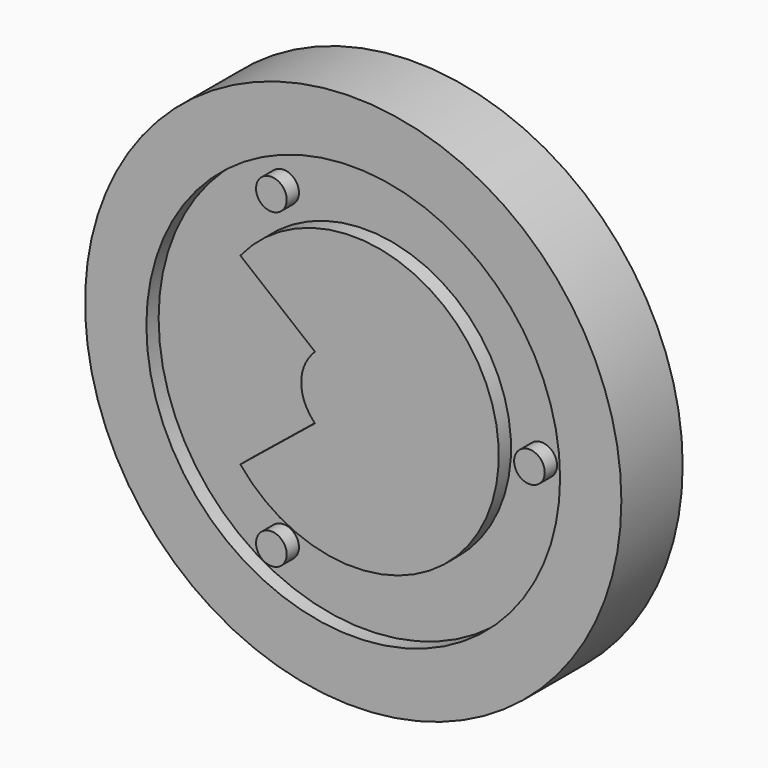
from build123d import *

# Parameters (mm, degrees)
F0_R     = 17.5
F0_R_2   = 13.5
F0_R_3   = 1
F1_DEPTH = 5
F2_DEPTH = 4


with BuildPart() as f1:
    # F0 (on Front) → F1 (new body)
    with BuildSketch(Plane.XZ):
        Circle(F0_R)
        Circle(F0_R_2, mode=Mode.SUBTRACT)
        with BuildLine():
            ThreePointArc((-7.36546, -6), (9.5, 0), (-7.36546, 6))
            Line((-7.36546, 6), (-2.5, 2.058528))
            add(Edge.make_bspline(
                [(-2.5, 2.058528), (-3.155988, 1.372416), (-3.626908, -0.000171), (-3.156096, -1.372603), (-2.5, -2.059)],
                knots=[0, 0, 0, 0, 2.243271, 4.486975, 4.486975, 4.486975, 4.486975], degree=3))
            Line((-2.5, -2.059), (-7.36546, -6))
        make_face()
        with Locations((-5.342105, -10.183905)):
            Circle(F0_R_3)
        with Locations((-5.342105, 10.183905)):
            Circle(F0_R_3)
        with Locations((11.5, 0)):
            Circle(F0_R_3)
    extrude(amount=F1_DEPTH)


with BuildPart() as f2:
    # F0 (on Front) → F2 (new body)
    with BuildSketch(Plane.XZ):
        Circle(F0_R_2)
        with Locations((-5.342105, -10.183905)):
            Circle(F0_R_3, mode=Mode.SUBTRACT)
        with BuildLine():
            Line((-2.5, 2.058528), (-7.36546, 6))
            ThreePointArc((-7.36546, 6), (9.5, 0), (-7.36546, -6))
            Line((-7.36546, -6), (-2.5, -2.059))
            add(Edge.make_bspline(
                [(-2.5, 2.058528), (-3.155988, 1.372416), (-3.626908, -0.000171), (-3.156096, -1.372603), (-2.5, -2.059)],
                knots=[0, 0, 0, 0, 2.243271, 4.486975, 4.486975, 4.486975, 4.486975], degree=3))
        make_face(mode=Mode.SUBTRACT)
        with Locations((-5.342105, 10.183905)):
            Circle(F0_R_3, mode=Mode.SUBTRACT)
        with Locations((11.5, 0)):
            Circle(F0_R_3, mode=Mode.SUBTRACT)
    extrude(amount=F2_DEPTH)


solid = Compound([f1.part, f2.part])
